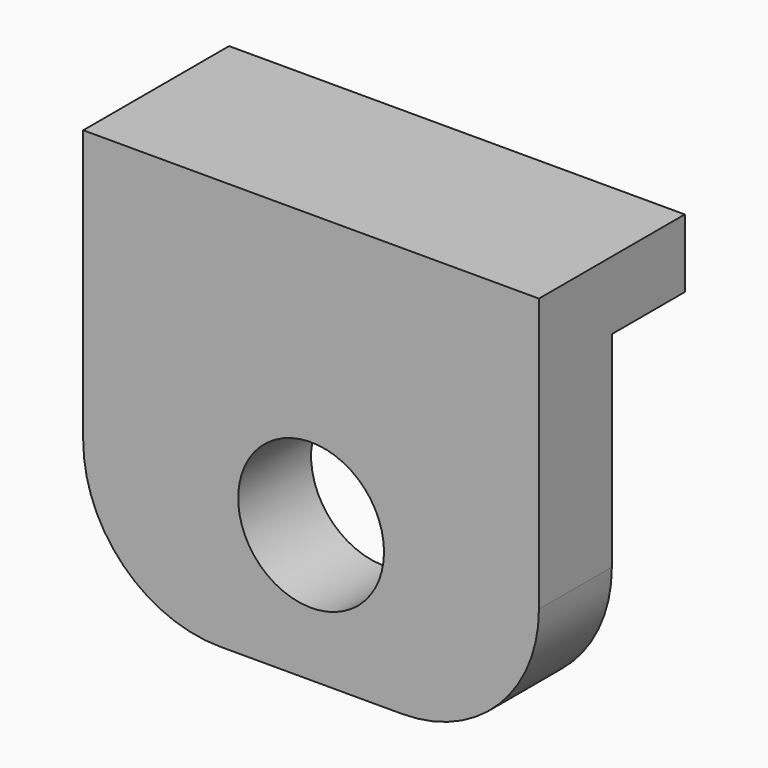
from build123d import *

# Parameters (mm, degrees)
BOX193_W          = 10
BOX193_H          = 2
BOX193_DEPTH      = 1.5
CYLINDER075_R     = 1.6
CYLINDER075_DEPTH = 2
BOX191_W          = 10
BOX191_H          = 2
BOX191_DEPTH      = 9
FILLET044_R       = 3


with BuildPart() as cube182:
    # Box193 → Box193 (new body)
    with BuildSketch(Plane(origin=(54, 15, -2.5), x_dir=(1, 0, 0), z_dir=(0, 0, 1))):
        with Locations((5, 1)):
            Rectangle(BOX193_W, BOX193_H)
    extrude(amount=BOX193_DEPTH)


with BuildPart() as cylinder156:
    # Cylinder075 → Cylinder075 (new body)
    with BuildSketch(Plane(origin=(59, 15, -7), x_dir=(1, 0, 0), z_dir=(0, -1, 0))):
        Circle(CYLINDER075_R)
    extrude(amount=CYLINDER075_DEPTH)


with BuildPart() as fusion060:
    # Box191 → Box191 (new body)
    with BuildSketch(Plane(origin=(54, 13, -10), x_dir=(1, 0, 0), z_dir=(0, 0, 1))):
        with Locations((5, 1)):
            Rectangle(BOX191_W, BOX191_H)
    extrude(amount=BOX191_DEPTH)

    # Fillet044
    fillet044_edges = [fusion060.edges().sort_by_distance(p)[0] for p in [
        (54, 14, -10),
        (64, 14, -10),
    ]]
    fillet(fillet044_edges, radius=FILLET044_R)

    # Cut099: cut Cylinder156
    add(cylinder156.part, mode=Mode.SUBTRACT)

    # Fusion060: union Cube182
    add(cube182.part)


solid = fusion060.part
